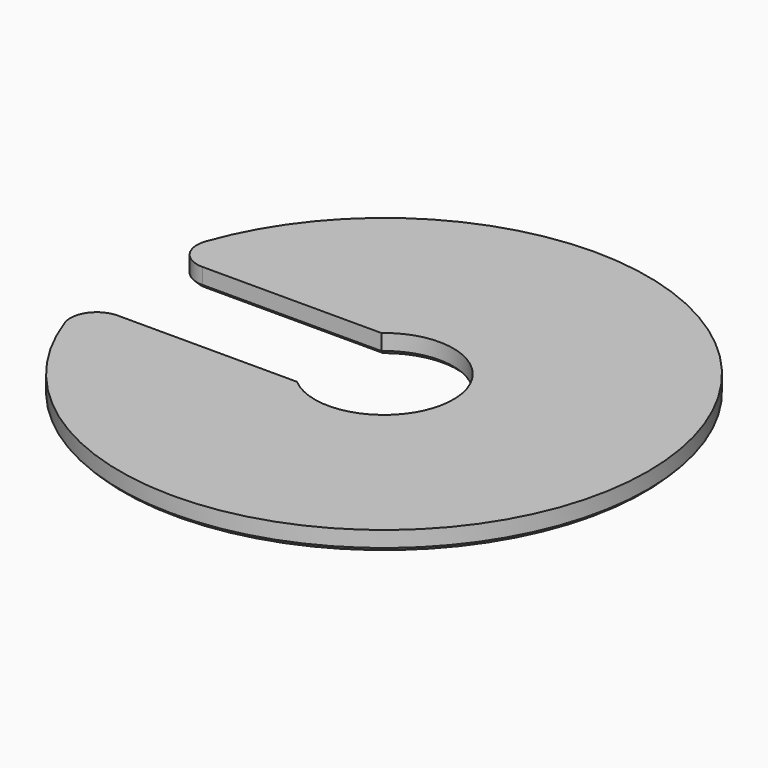
from build123d import *

# Parameters (mm, degrees)
PAD_DEPTH    = 3
CHAMFER_SIZE = 0.6


with BuildPart() as part:
    # Sketch → Pad (new body)
    with BuildSketch(Plane.XY):
        with BuildLine():
            ThreePointArc((-37.712362, -13.333333), (40, 0), (-37.712362, 13.333333))
            ThreePointArc((-37.712362, 13.333333), (-37.207112, 9.690599), (-33.941125, 8))
            Line((-33.941125, 8), (-6.800735, 8))
            ThreePointArc((-6.800735, -8), (10.5, 0), (-6.800735, 8))
            Line((-33.941125, -8), (-6.800735, -8))
            ThreePointArc((-33.941125, -8), (-37.207112, -9.690599), (-37.712362, -13.333333))
        make_face()
    extrude(amount=PAD_DEPTH)

    # Chamfer
    chamfer_edges = [part.edges().sort_by_distance(p)[0] for p in [
        (-37.207112, -9.690599, 0),
        (40, 0, 0),
        (-37.207112, 9.690599, 0),
        (-20.37093, 8, 0),
        (10.5, 0, 0),
        (-20.37093, -8, 0),
    ]]
    chamfer(chamfer_edges, length=CHAMFER_SIZE)


solid = part.part
